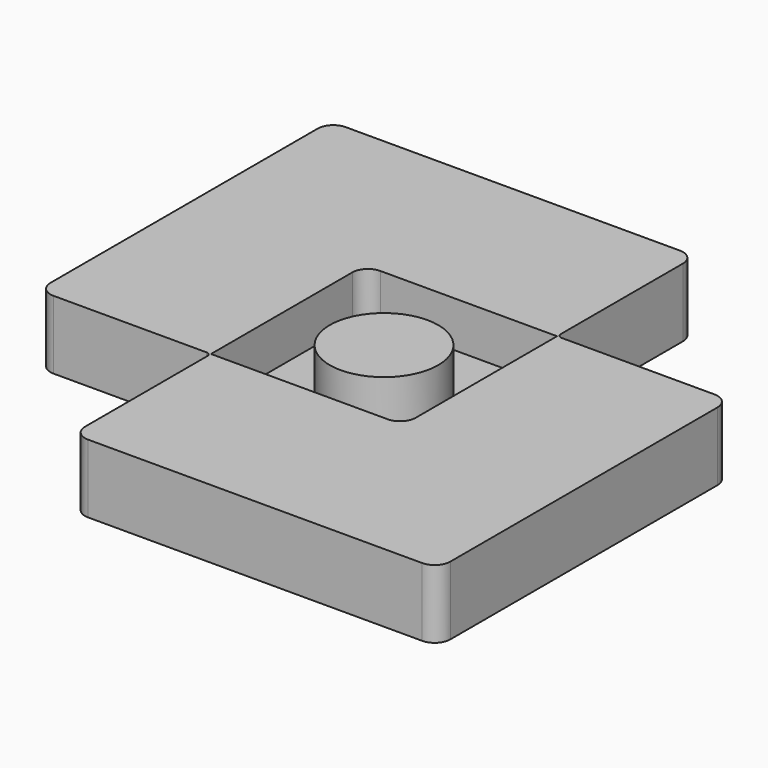
from build123d import *

# Parameters (mm, degrees)
F1_DEPTH = 1.5
F2_R     = 0.1
F3_DEPTH = 1


with BuildPart() as f1:
    # F0 (on Top) → F1 (new body)
    with BuildSketch(Plane.XY):
        with BuildLine():
            Line((1.762745, 5.894785), (-5.552315, 5.894785))
            ThreePointArc((-5.552315, 5.894785), (-5.794478, 5.794478), (-5.894785, 5.552315))
            Line((-5.894785, 5.552315), (-5.894785, -1.762745))
            ThreePointArc((-5.894785, -1.762745), (-5.794478, -2.004908), (-5.552315, -2.105215))
            Line((-5.552315, -2.105215), (-2.105215, -2.105215))
            Line((-2.105215, -2.105215), (-2.105215, 1.762745))
            ThreePointArc((-2.105215, 1.762745), (-2.004908, 2.004908), (-1.762745, 2.105215))
            Line((-1.762745, 2.105215), (2.105215, 2.105215))
            Line((2.105215, 2.105215), (2.105215, 5.552315))
            ThreePointArc((2.105215, 5.552315), (2.004908, 5.794478), (1.762745, 5.894785))
        make_face()
        with BuildLine():
            Line((2.105215, -1.762745), (2.105215, 2.105215))
            Line((2.105215, 2.105215), (-1.762745, 2.105215))
            ThreePointArc((-1.762745, 2.105215), (-2.004908, 2.004908), (-2.105215, 1.762745))
            Line((-2.105215, 1.762745), (-2.105215, -2.105215))
            Line((-2.105215, -2.105215), (1.762745, -2.105215))
            ThreePointArc((1.762745, -2.105215), (2.004908, -2.004908), (2.105215, -1.762745))
        make_face()
        with BuildLine():
            ThreePointArc((0.840188, 0.840188), (0.840188, -0.840188), (-0.840188, -0.840188))
            ThreePointArc((-0.840188, -0.840188), (-0.840188, 0.840188), (0.840188, 0.840188))
        make_face(mode=Mode.SUBTRACT)
        with BuildLine():
            ThreePointArc((0.840188, 0.840188), (-0.840188, 0.840188), (-0.840188, -0.840188))
            ThreePointArc((-0.840188, -0.840188), (0.840188, -0.840188), (0.840188, 0.840188))
        make_face()
        with BuildLine():
            Line((5.552315, 2.105215), (2.105215, 2.105215))
            Line((2.105215, 2.105215), (2.105215, -1.762745))
            ThreePointArc((2.105215, -1.762745), (2.004908, -2.004908), (1.762745, -2.105215))
            Line((1.762745, -2.105215), (-2.105215, -2.105215))
            Line((-2.105215, -2.105215), (-2.105215, -5.552315))
            ThreePointArc((-2.105215, -5.552315), (-2.004908, -5.794478), (-1.762745, -5.894785))
            Line((-1.762745, -5.894785), (5.552315, -5.894785))
            ThreePointArc((5.552315, -5.894785), (5.794478, -5.794478), (5.894785, -5.552315))
            Line((5.894785, -5.552315), (5.894785, 1.762745))
            ThreePointArc((5.894785, 1.762745), (5.794478, 2.004908), (5.552315, 2.105215))
        make_face()
    extrude(amount=-F1_DEPTH)

    # F2
    f2_edges = [f1.edges().sort_by_distance(p)[0] for p in [
        (-2.105215, -2.105215, -0.75),
        (2.105215, 2.105215, -0.75),
    ]]
    fillet(f2_edges, radius=F2_R)

    # F0 (on Top) → F3 (cut)
    with BuildSketch(Plane.XY):
        with BuildLine():
            Line((2.105215, -1.762745), (2.105215, 2.105215))
            Line((2.105215, 2.105215), (-1.762745, 2.105215))
            ThreePointArc((-1.762745, 2.105215), (-2.004908, 2.004908), (-2.105215, 1.762745))
            Line((-2.105215, 1.762745), (-2.105215, -2.105215))
            Line((-2.105215, -2.105215), (1.762745, -2.105215))
            ThreePointArc((1.762745, -2.105215), (2.004908, -2.004908), (2.105215, -1.762745))
        make_face()
        with BuildLine():
            ThreePointArc((0.840188, 0.840188), (0.840188, -0.840188), (-0.840188, -0.840188))
            ThreePointArc((-0.840188, -0.840188), (-0.840188, 0.840188), (0.840188, 0.840188))
        make_face(mode=Mode.SUBTRACT)
    extrude(amount=-F3_DEPTH, mode=Mode.SUBTRACT)


solid = f1.part
